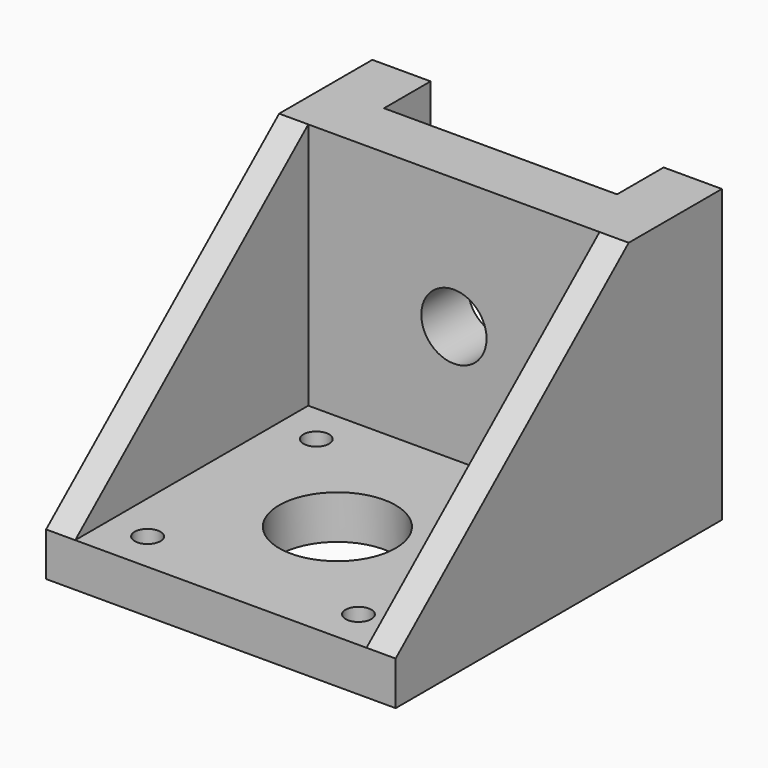
from build123d import *

# Parameters (mm, degrees)
F0_W      = 25.4
F0_H      = 31.75
F1_DEPTH  = 6.35
F2_W      = 6.35
F2_H      = 31.75
F3_DEPTH  = 12.7
F4_W      = 38.1
F4_H      = 4.7625
F5_DEPTH  = 31.75
F7_DEPTH  = 3.175
F9_DEPTH  = 3.175
F10_R     = 3.556
F11_DEPTH = 6.35
F12_R     = 1.4
F12_R_2   = 6.35
F13_DEPTH = 4.7625


with BuildPart() as f1:
    # F0 (on Front) → F1 (new body)
    with BuildSketch(Plane.XZ):
        with Locations((0, 15.875)):
            Rectangle(F0_W, F0_H)
    extrude(amount=F1_DEPTH)

    # F2 (on face) → F3 (join)
    with BuildSketch(Plane.XZ.offset(6.35)):
        with Locations((-15.875, 15.875)):
            Rectangle(F2_W, F2_H)
        with Locations((15.875, 15.875)):
            Rectangle(F2_W, F2_H)
    extrude(amount=-F3_DEPTH)

    # F4 (on face) → F5 (join)
    with BuildSketch(Plane.XZ.offset(6.35)):
        with Locations((0, 2.38125)):
            Rectangle(F4_W, F4_H)
    extrude(amount=F5_DEPTH)

    # F6 (on face) → F7 (join)
    with BuildSketch(Plane(origin=(-19.05, 0, 0), x_dir=(0, -1, 0), z_dir=(-1, 0, 0))):
        Polygon((38.1, 4.7625), (6.35, 31.75), (6.35, 4.7625), align=None)
    extrude(amount=-F7_DEPTH)

    # F8 (on face) → F9 (join)
    with BuildSketch(Plane.YZ.offset(19.05)):
        Polygon((-6.35, 4.7625), (-6.35, 31.75), (-38.1, 4.7625), align=None)
    extrude(amount=-F9_DEPTH)

    # F10 (on Front) → F11 (cut)
    with BuildSketch(Plane.XZ):
        with Locations((0, 17.508461)):
            Circle(F10_R)
    extrude(amount=F11_DEPTH, mode=Mode.SUBTRACT)

    # F12 (on face) → F13 (cut, through all)
    with BuildSketch(Plane.XY.offset(4.7625)):
        with Locations((11.4935, -33.7185)):
            Circle(F12_R)
        with Locations((-11.4935, -33.7185)):
            Circle(F12_R)
        with Locations((11.4935, -10.7315)):
            Circle(F12_R)
        with Locations((-11.4935, -10.7315)):
            Circle(F12_R)
        with Locations((0, -22.225)):
            Circle(F12_R_2)
    extrude(amount=-F13_DEPTH, mode=Mode.SUBTRACT)


solid = f1.part
